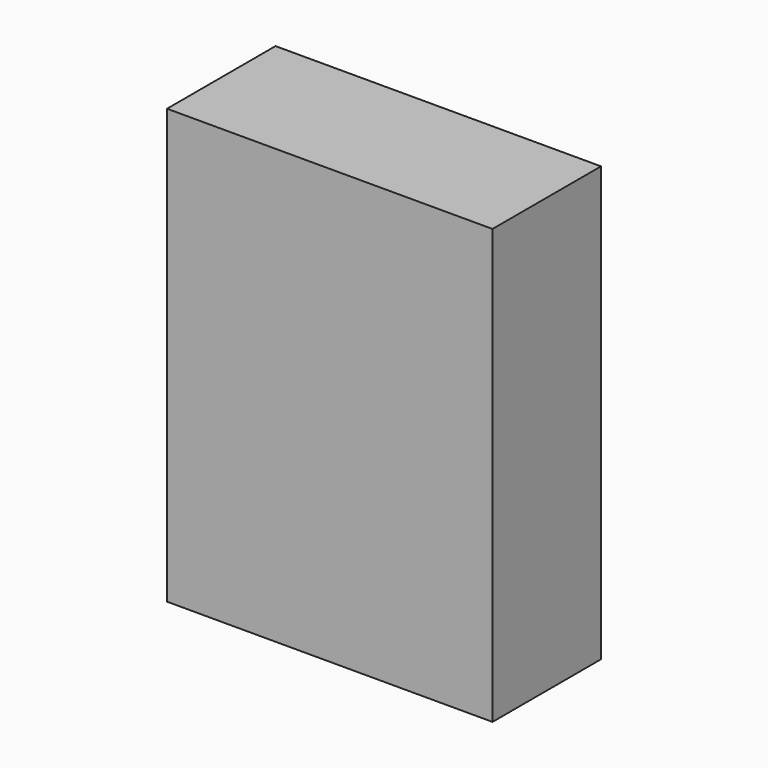
from build123d import *

# Parameters (mm, degrees)
F0_W     = 600
F0_H     = 800
F1_DEPTH = 250
F2_W     = 30.7556688786
F2_H     = 98.9223569632
F3_DEPTH = 25
F3_TAPER = -35


with BuildPart() as f1:
    # F0 (on Front) → F1 (new body)
    with BuildSketch(Plane.XZ):
        Rectangle(F0_W, F0_H)
    extrude(amount=F1_DEPTH)

    # F2 (on face) → F3 (cut)
    with BuildSketch(Plane(origin=(0, 0, 0), x_dir=(-1, 0, 0), z_dir=(0, 1, 0))):
        with Locations((-200.6758749485, -1.6446858644)):
            Rectangle(F2_W, F2_H)
    extrude(amount=-F3_DEPTH, taper=F3_TAPER, mode=Mode.SUBTRACT)


solid = f1.part
